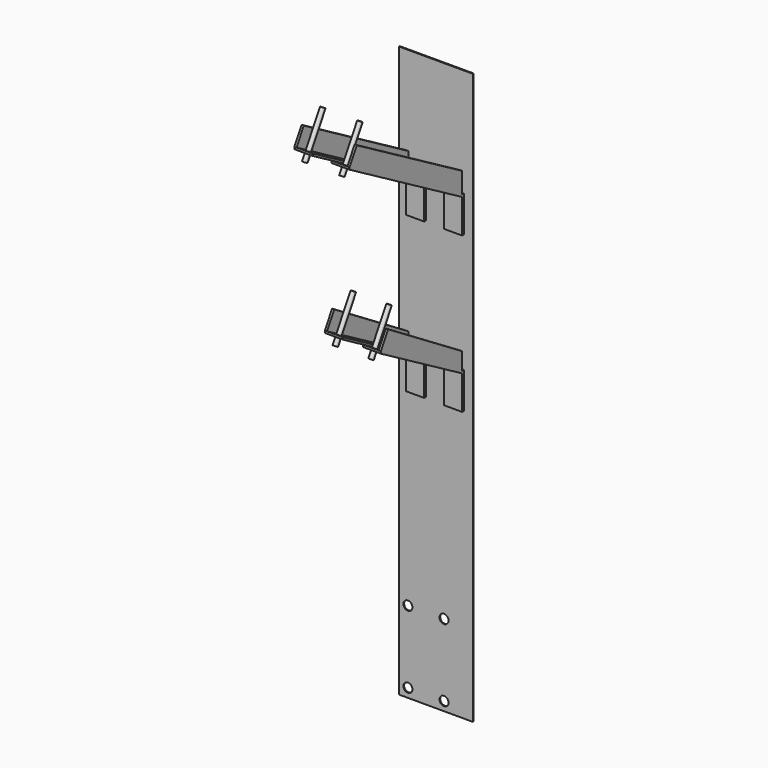
from build123d import *

# Parameters (mm, degrees)
F0_W           = 38.1
F0_H           = 401.32
F1_DEPTH       = 0.635
F2_DEPTH       = 13.97
F3_W           = 12.7
F3_H           = 25.4
F4_DEPTH       = 1.524
F5_W           = 12.7
F5_H           = 25.4
F6_DEPTH       = 1.524
F8_DEPTH       = 12.7
F10_DEPTH      = 12.7
F12_DEPTH      = 1.524
F14_DEPTH      = 1.524
F15_W          = 7.62
F15_H          = 44.45
F16_DEPTH      = 25.4
F17_W          = 12.7
F17_H          = 25.4
F18_DEPTH      = 1.524
F20_DEPTH      = 12.7
F22_DEPTH      = 12.7
F24_DEPTH      = 1.524
F26_DEPTH      = 1.524
F27_W          = 7.62
F27_H          = 44.45
F28_DEPTH      = 25.4
F29_R          = 3.175
F30_DEPTH      = 25.4
F31_R          = 1.5875
F32_DEPTH      = 25.4
F32_DEPTH_BACK = 6.35
F33_R          = 1.5875
F34_DEPTH      = 25.4
F34_DEPTH_BACK = 6.35


with BuildPart() as f1:
    # F0 (on Front) → F1 (new body)
    with BuildSketch(Plane.XZ):
        with Locations((-19.05, -200.66)):
            Rectangle(F0_W, F0_H)
    extrude(amount=F1_DEPTH)

    # F2 (add): a face of the model
    f2_faces = [f1.faces().sort_by_distance(p)[0] for p in [
        (0, -0.3175, -200.66),
    ]]
    extrude(f2_faces, amount=F2_DEPTH)

    # F3 (on face) → F4 (join)
    with BuildSketch(Plane.XZ.offset(0.635)):
        with Locations((1.27, -88.9)):
            Rectangle(F3_W, F3_H)
    extrude(amount=F4_DEPTH)

    # F5 (on face) → F6 (join)
    with BuildSketch(Plane.XZ.offset(0.635)):
        with Locations((-25.4, -88.9)):
            Rectangle(F5_W, F5_H)
    extrude(amount=F6_DEPTH)

    # F7 (on face) → F8 (join)
    with BuildSketch(Plane.YZ.offset(7.62)):
        Polygon((-2.159, -77.724), (-2.159, -76.2), (-101.1457036526, -19.05), (-101.1457036526, -20.574), align=None)
    extrude(amount=-F8_DEPTH)

    # F9 (on face) → F10 (join)
    with BuildSketch(Plane(origin=(-31.75, 0, 0), x_dir=(0, -1, 0), z_dir=(-1, 0, 0))):
        Polygon((100.4791929613, -19.434810127), (2.159, -76.2), (2.159, -77.724), (100.4791929613, -20.958810127), align=None)
    extrude(amount=-F10_DEPTH)

    # F11 (on face) → F12 (join)
    with BuildSketch(Plane.YZ.offset(7.62)):
        Polygon((-101.1457036526, -19.05), (-2.159, -76.2), (-2.159, -61.5353031626), (-94.7957036526, -8.0514773719), align=None)
    extrude(amount=-F12_DEPTH)

    # F13 (on face) → F14 (join)
    with BuildSketch(Plane(origin=(-31.75, 0, 0), x_dir=(0, -1, 0), z_dir=(-1, 0, 0))):
        Polygon((2.159, -61.5353031626), (2.159, -76.2), (100.4791929613, -19.434810127), (94.1291929613, -8.4362874989), align=None)
    extrude(amount=-F14_DEPTH)

    # F15 (on face) → F16 (cut)
    with BuildSketch(Plane(origin=(0, -33.5353178842, -58.0848744234), x_dir=(1, 0, 0), z_dir=(0, 0.5, 0.8660254038))):
        with Locations((-22.86, 2.6250738686)):
            Rectangle(F15_W, F15_H)
        with Locations((-1.27, 2.6250738686)):
            Rectangle(F15_W, F15_H)
    extrude(amount=-F16_DEPTH, mode=Mode.SUBTRACT)

    # F17 (on face) → F18 (join)
    with BuildSketch(Plane.XZ.offset(0.635)):
        with Locations((-25.4, -198.12)):
            Rectangle(F17_W, F17_H)
        with Locations((1.27, -198.12)):
            Rectangle(F17_W, F17_H)
    extrude(amount=F18_DEPTH)

    # F19 (on face) → F20 (join)
    with BuildSketch(Plane.YZ.offset(7.62)):
        Polygon((-2.159, -186.944), (-2.159, -185.42), (-73.6493970824, -144.145), (-73.6493970824, -145.669), align=None)
    extrude(amount=-F20_DEPTH)

    # F21 (on face) → F22 (join)
    with BuildSketch(Plane(origin=(-31.75, 0, 0), x_dir=(0, -1, 0), z_dir=(-1, 0, 0))):
        Polygon((73.6493970824, -144.145), (2.159, -185.42), (2.159, -186.944), (73.6493970824, -145.669), align=None)
    extrude(amount=-F22_DEPTH)

    # F23 (on face) → F24 (join)
    with BuildSketch(Plane.YZ.offset(7.62)):
        Polygon((-73.6493970824, -144.145), (-2.159, -185.42), (-2.159, -173.2028803778), (-67.2993970824, -133.1464773719), align=None)
    extrude(amount=-F24_DEPTH)

    # F25 (on face) → F26 (join)
    with BuildSketch(Plane(origin=(-31.75, 0, 0), x_dir=(0, -1, 0), z_dir=(-1, 0, 0))):
        Polygon((2.159, -173.2192523234), (2.159, -185.42), (73.6493970824, -144.145), (67.2993970824, -133.1464773719), align=None)
    extrude(amount=-F26_DEPTH)

    # F27 (on face) → F28 (cut)
    with BuildSketch(Plane(origin=(0, -80.8289651849, -139.9998744234), x_dir=(1, 0, 0), z_dir=(0, 0.5, 0.8660254038))):
        with Locations((-22.86, 63.5352511532)):
            Rectangle(F27_W, F27_H)
        with Locations((-1.27, 63.5352511532)):
            Rectangle(F27_W, F27_H)
    extrude(amount=-F28_DEPTH, mode=Mode.SUBTRACT)

    # F29 (on face) → F30 (cut)
    with BuildSketch(Plane.XZ.offset(0.635)):
        with Locations((-31.75, -394.97)):
            Circle(F29_R)
        with Locations((-31.75, -344.17)):
            Circle(F29_R)
        with Locations((-6.35, -344.17)):
            Circle(F29_R)
        with Locations((-6.35, -394.97)):
            Circle(F29_R)
    extrude(amount=-F30_DEPTH, mode=Mode.SUBTRACT)

    # F31 (on face) → F32 (join, two sides)
    with BuildSketch(Plane(origin=(0, -33.5353178842, -58.0848744234), x_dir=(1, 0, 0), z_dir=(0, 0.5, 0.8660254038))) as f32_sk:
        with Locations((-25.4, -72.2776037297)):
            Circle(F31_R)
        with Locations((1.27, -73.0472239837)):
            Circle(F31_R)
    extrude(amount=F32_DEPTH)
    extrude(f32_sk.sketch, amount=-F32_DEPTH_BACK)

    # F33 (on face) → F34 (join, two sides)
    with BuildSketch(Plane(origin=(0, -80.8289651849, -139.9998744234), x_dir=(1, 0, 0), z_dir=(0, 0.5, 0.8660254038))) as f34_sk:
        with Locations((-25.4, 13.3702511532)):
            Circle(F33_R)
        with Locations((-0.254, 13.3702511532)):
            Circle(F33_R)
    extrude(amount=F34_DEPTH)
    extrude(f34_sk.sketch, amount=-F34_DEPTH_BACK)


solid = f1.part
